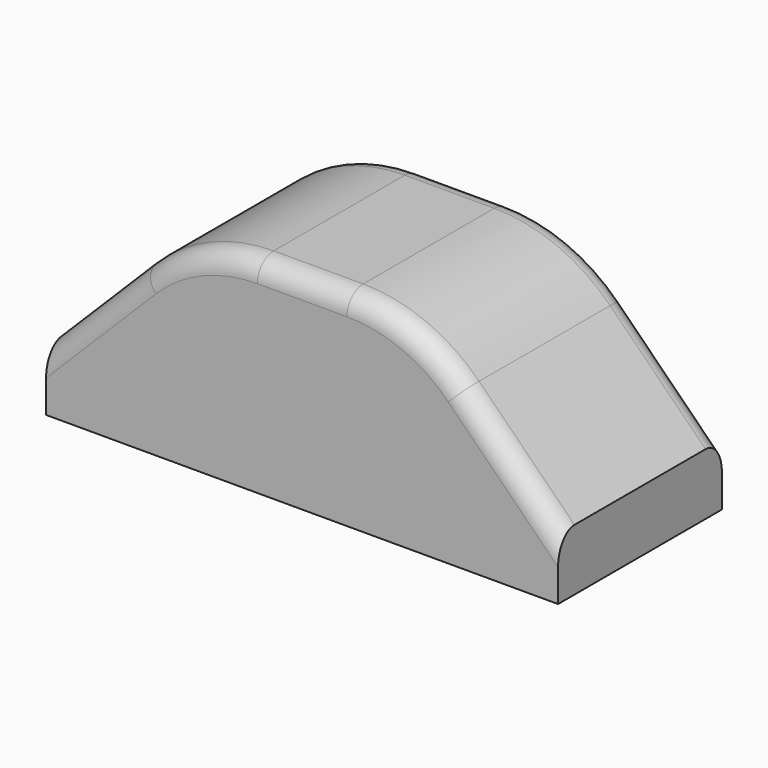
from build123d import *

# Parameters (mm, degrees)
BOX006_W             = 25
BOX006_H             = 10
BOX006_DEPTH         = 10
CHAMFER003_SIZE      = 7
FILLET002003_R       = 8
FILLET002008005008_R = 1


with BuildPart() as part:
    # Box006 → Box006 (new body)
    with BuildSketch(Plane(origin=(85, 5, 30), x_dir=(1, 0, 0), z_dir=(0, 0, 1))):
        with Locations((12.5, 5)):
            Rectangle(BOX006_W, BOX006_H)
    extrude(amount=BOX006_DEPTH)

    # Chamfer003
    chamfer003_edges = [part.edges().sort_by_distance(p)[0] for p in [
        (85, 10, 40),
        (110, 10, 40),
    ]]
    chamfer(chamfer003_edges, length=CHAMFER003_SIZE)

    # Fillet002003
    fillet002003_edges = [part.edges().sort_by_distance(p)[0] for p in [
        (92, 10, 40),
        (103, 10, 40),
    ]]
    fillet(fillet002003_edges, radius=FILLET002003_R)


with BuildPart() as part_1:
    # Fillet002003 placement: moved
    add(part.part.moved(Location((-7.5, 0, -3))))

    # Fillet002008005008
    fillet002008005008_edges = [part_1.edges().sort_by_distance(p)[0] for p in [
        (95.247759, 5, 36.391036),
        (95.247759, 15, 36.391036),
    ]]
    fillet(fillet002008005008_edges, radius=FILLET002008005008_R)


with BuildPart() as part_2:
    # Fillet002008005008 placement: moved
    add(part_1.part.moved(Location((5, 0, -22.5))))


solid = part_2.part
